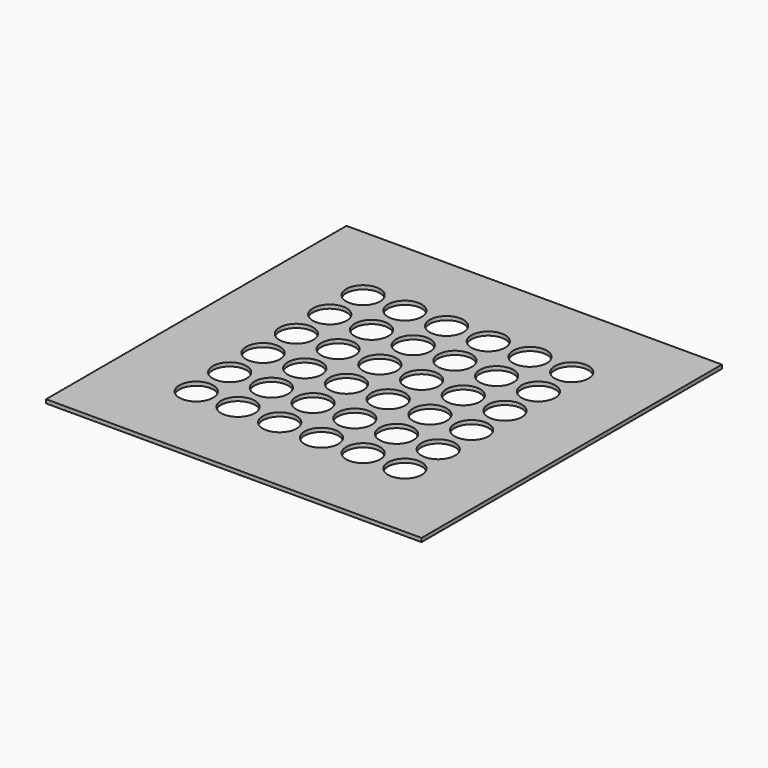
from build123d import *

# Parameters (mm, degrees)
SKETCH048_W                     = 100
SKETCH048_H                     = 100
PAD018_DEPTH                    = 1
SKETCH049_R                     = 4.5
POCKET011_DEPTH                 = 283.850783
SKETCH049_LINEARPATTERN_2_R     = 4.5
POCKET011_LINEARPATTERN_2_DEPTH = 283.850783
SKETCH049_LINEARPATTERN_3_R     = 4.5
POCKET011_LINEARPATTERN_3_DEPTH = 283.850783
SKETCH049_LINEARPATTERN_4_R     = 4.5
POCKET011_LINEARPATTERN_4_DEPTH = 283.850783
SKETCH049_LINEARPATTERN_5_R     = 4.5
POCKET011_LINEARPATTERN_5_DEPTH = 283.850783
SKETCH049_LINEARPATTERN_6_R     = 4.5
POCKET011_LINEARPATTERN_6_DEPTH = 283.850783
LINEARPATTERN001_COUNT          = 6
LINEARPATTERN001_PITCH          = 11.111111


with BuildPart() as part:
    # Sketch048 → Pad018 (new body)
    with BuildSketch(Plane.XY):
        Rectangle(SKETCH048_W, SKETCH048_H)
    extrude(amount=PAD018_DEPTH)

    # Sketch049 → Pocket011 (cut, through all)
    with BuildSketch(Plane.XY):
        with Locations((-27.777778, 27.777778)):
            Circle(SKETCH049_R)
    pocket011 = extrude(amount=POCKET011_DEPTH, mode=Mode.SUBTRACT)

    # Sketch049 LinearPattern 2 → Pocket011 LinearPattern 2 (cut, through all)
    with BuildSketch(Plane(origin=(11.111111, 0, 0), x_dir=(1, 0, 0), z_dir=(0, 0, 1))):
        with Locations((-27.777778, 27.777778)):
            Circle(SKETCH049_LINEARPATTERN_2_R)
    pocket011_linearpattern_2 = extrude(amount=POCKET011_LINEARPATTERN_2_DEPTH, mode=Mode.SUBTRACT)

    # Sketch049 LinearPattern 3 → Pocket011 LinearPattern 3 (cut, through all)
    with BuildSketch(Plane(origin=(22.222222, 0, 0), x_dir=(1, 0, 0), z_dir=(0, 0, 1))):
        with Locations((-27.777778, 27.777778)):
            Circle(SKETCH049_LINEARPATTERN_3_R)
    pocket011_linearpattern_3 = extrude(amount=POCKET011_LINEARPATTERN_3_DEPTH, mode=Mode.SUBTRACT)

    # Sketch049 LinearPattern 4 → Pocket011 LinearPattern 4 (cut, through all)
    with BuildSketch(Plane(origin=(33.333333, 0, 0), x_dir=(1, 0, 0), z_dir=(0, 0, 1))):
        with Locations((-27.777778, 27.777778)):
            Circle(SKETCH049_LINEARPATTERN_4_R)
    pocket011_linearpattern_4 = extrude(amount=POCKET011_LINEARPATTERN_4_DEPTH, mode=Mode.SUBTRACT)

    # Sketch049 LinearPattern 5 → Pocket011 LinearPattern 5 (cut, through all)
    with BuildSketch(Plane(origin=(44.444444, 0, 0), x_dir=(1, 0, 0), z_dir=(0, 0, 1))):
        with Locations((-27.777778, 27.777778)):
            Circle(SKETCH049_LINEARPATTERN_5_R)
    pocket011_linearpattern_5 = extrude(amount=POCKET011_LINEARPATTERN_5_DEPTH, mode=Mode.SUBTRACT)

    # Sketch049 LinearPattern 6 → Pocket011 LinearPattern 6 (cut, through all)
    with BuildSketch(Plane(origin=(55.555556, 0, 0), x_dir=(1, 0, 0), z_dir=(0, 0, 1))):
        with Locations((-27.777778, 27.777778)):
            Circle(SKETCH049_LINEARPATTERN_6_R)
    pocket011_linearpattern_6 = extrude(amount=POCKET011_LINEARPATTERN_6_DEPTH, mode=Mode.SUBTRACT)

    # LinearPattern001: Pocket011, Pocket011 LinearPattern 2, Pocket011 LinearPattern 3, Pocket011 LinearPattern 4, Pocket011 LinearPattern 5, Pocket011 LinearPattern 6 ×6
    with Locations(*[(0, -i * LINEARPATTERN001_PITCH, 0) for i in range(1, LINEARPATTERN001_COUNT)]):
        add(pocket011, mode=Mode.SUBTRACT)
        add(pocket011_linearpattern_2, mode=Mode.SUBTRACT)
        add(pocket011_linearpattern_3, mode=Mode.SUBTRACT)
        add(pocket011_linearpattern_4, mode=Mode.SUBTRACT)
        add(pocket011_linearpattern_5, mode=Mode.SUBTRACT)
        add(pocket011_linearpattern_6, mode=Mode.SUBTRACT)


solid = part.part
